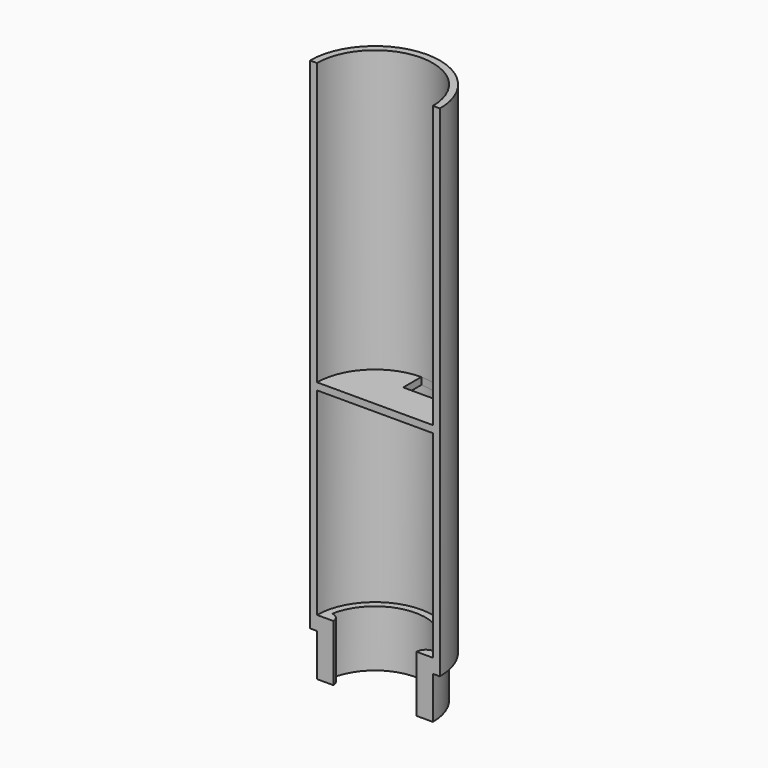
from build123d import *

# Parameters (mm, degrees)
F3_DEPTH = 2.5
F5_DEPTH = 20
F7_DEPTH = 192.001


with BuildPart() as f1:
    # F0 (on Front) → F1 (revolve)
    with BuildSketch(Plane.XZ):
        Polygon((20.5, 2.5), (0, 2.5), (0, 0), (20.5, 0), (20.5, -70), (18, -70), (18, -90), (20.5, -90), (20.5, -75), (23, -75), (23, 0), (23, 102), (20.5, 102), align=None)
    revolve(axis=Axis((0, 0, 1.25), (0, 0, 1)))

    # F2 (on face) → F3 (cut, through all)
    with BuildSketch(Plane.XY.offset(2.5)):
        with BuildLine():
            Line((0, 12.5), (16.248077, 12.5))
            ThreePointArc((16.248077, 12.5), (9.055385, 18.391574), (0, 20.5))
            Line((0, 20.5), (0, 12.5))
        make_face()
    extrude(amount=-F3_DEPTH, mode=Mode.SUBTRACT)

    # F4 (on face) → F5 (join, through all)
    with BuildSketch(Plane(origin=(0, 0, -90), x_dir=(1, 0, 0), z_dir=(0, 0, -1))):
        with BuildLine():
            ThreePointArc((-17.706597, 3.236729), (-18, 0), (-17.706597, -3.236729))
            ThreePointArc((-17.706597, -3.236729), (-14.75, 0), (-17.706597, 3.236729))
        make_face()
        with BuildLine():
            ThreePointArc((17.706597, -3.236729), (18, 0), (17.706597, 3.236729))
            ThreePointArc((17.706597, 3.236729), (14.75, 0), (17.706597, -3.236729))
        make_face()
    extrude(amount=-F5_DEPTH)

    # F6 (on face) → F7 (cut, through all)
    with BuildSketch(Plane.XY.offset(102)):
        with BuildLine():
            Line((23, 0), (-23, 0))
            ThreePointArc((-23, 0), (0, -23), (23, 0))
        make_face()
    extrude(amount=-F7_DEPTH, mode=Mode.SUBTRACT)


solid = f1.part
